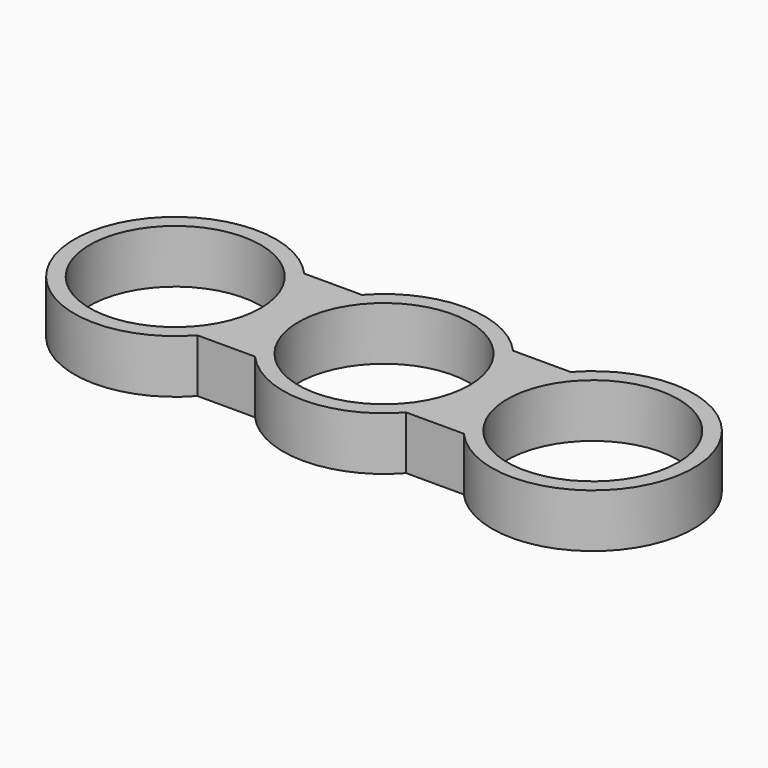
from build123d import *

# Parameters (mm, degrees)
F0_R     = 11.2
F1_DEPTH = 7


with BuildPart() as f1:
    # F0 (on Top) → F1 (new body)
    with BuildSketch(Plane.XY):
        with BuildLine():
            ThreePointArc((-9.886205, -8.746596), (-13.2, 0), (-9.886205, 8.746596))
            Line((-9.886205, 8.746596), (-17.443001, 8.746596))
            ThreePointArc((-17.443001, 8.746596), (-40.529206, 0), (-17.443001, -8.746596))
            Line((-17.443001, -8.746596), (-9.886205, -8.746596))
        make_face()
        with Locations((-27.329206, 0)):
            Circle(F0_R, mode=Mode.SUBTRACT)
        with BuildLine():
            ThreePointArc((9.886205, 8.746596), (12.343782, 4.676649), (13.2, 0))
            ThreePointArc((13.2, 0), (12.343782, -4.676649), (9.886205, -8.746596))
            Line((9.886205, -8.746596), (17.443001, -8.746596))
            ThreePointArc((17.443001, -8.746596), (40.529206, 0), (17.443001, 8.746596))
            Line((17.443001, 8.746596), (9.886205, 8.746596))
        make_face()
        with Locations((27.329206, 0)):
            Circle(F0_R, mode=Mode.SUBTRACT)
        with BuildLine():
            ThreePointArc((9.886205, -8.746596), (12.343782, -4.676649), (13.2, 0))
            ThreePointArc((13.2, 0), (12.343782, 4.676649), (9.886205, 8.746596))
            ThreePointArc((9.886205, 8.746596), (0, 13.2), (-9.886205, 8.746596))
            ThreePointArc((-9.886205, 8.746596), (-13.2, 0), (-9.886205, -8.746596))
            ThreePointArc((-9.886205, -8.746596), (0, -13.2), (9.886205, -8.746596))
        make_face()
        Circle(F0_R, mode=Mode.SUBTRACT)
    extrude(amount=F1_DEPTH)


solid = f1.part
